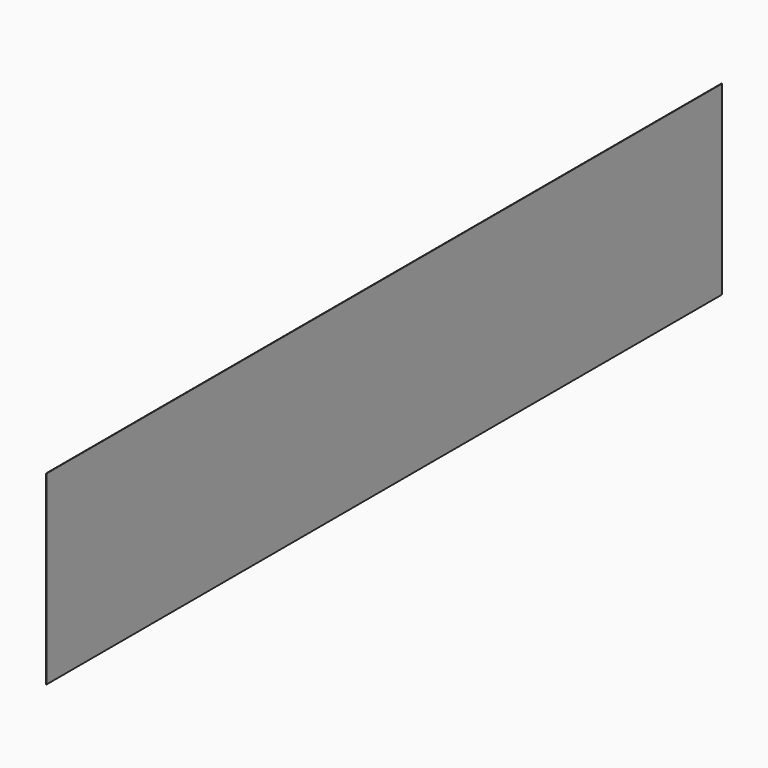
from build123d import *

# Parameters (mm, degrees)
SKETCH_W  = 1
SKETCH_H  = 440
PAD_DEPTH = 2000


with BuildPart() as part:
    # Sketch → Pad (new body)
    with BuildSketch(Plane.XZ):
        with Locations((0.5, 220)):
            Rectangle(SKETCH_W, SKETCH_H)
    extrude(amount=PAD_DEPTH)


solid = part.part
